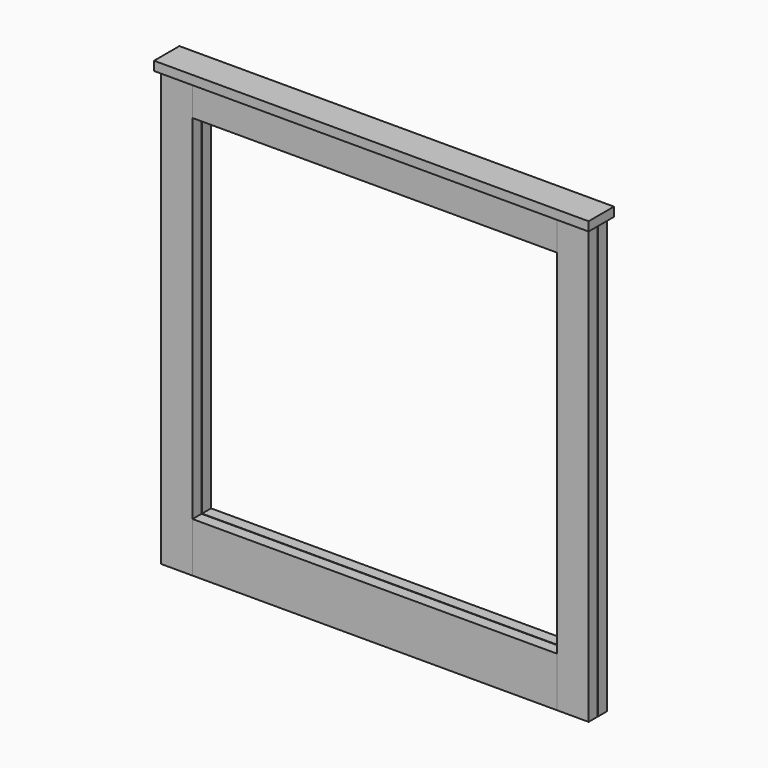
from build123d import *

# Parameters (mm, degrees)
F0_W          = 88.9
F0_H          = 31.75
F1_DEPTH      = 1219.2
F2_W          = 31.75
F2_H          = 139.7
F2_H_2        = 88.9
F3_DEPTH      = 511.175
F3_DEPTH_BACK = 511.175
F5_W          = 88.9
F5_H          = 25.4
F6_DEPTH      = 609.6


with BuildPart() as f1:
    # F0 (on Top) → F1 (new body)
    with BuildSketch(Plane.XY):
        with Locations((-555.625, -16.66875)):
            Rectangle(F0_W, F0_H)
        with Locations((555.625, -16.66875)):
            Rectangle(F0_W, F0_H)
    extrude(amount=F1_DEPTH)


with BuildPart() as f3:
    # F2 (on Right) → F3 (new body, two sides)
    with BuildSketch(Plane.YZ) as f3_sk:
        with Locations((-16.66875, 69.85)):
            Rectangle(F2_W, F2_H)
        with Locations((-16.66875, 1174.75)):
            Rectangle(F2_W, F2_H_2)
    extrude(amount=F3_DEPTH)
    extrude(f3_sk.sketch, amount=-F3_DEPTH_BACK)


with BuildPart() as f4_1:
    # F4: instance of F1
    add(f1.part.mirror(Plane.XZ))


with BuildPart() as f4_2:
    # F4: instance of F3
    add(f3.part.mirror(Plane.XZ))


with BuildPart() as f6:
    # F5 (on Right) → F6 (new body, symmetric)
    with BuildSketch(Plane.YZ):
        with Locations((0, 1231.9)):
            Rectangle(F5_W, F5_H)
    extrude(amount=F6_DEPTH, both=True)


solid = Compound([f1.part, f3.part, f4_1.part, f4_2.part, f6.part])
